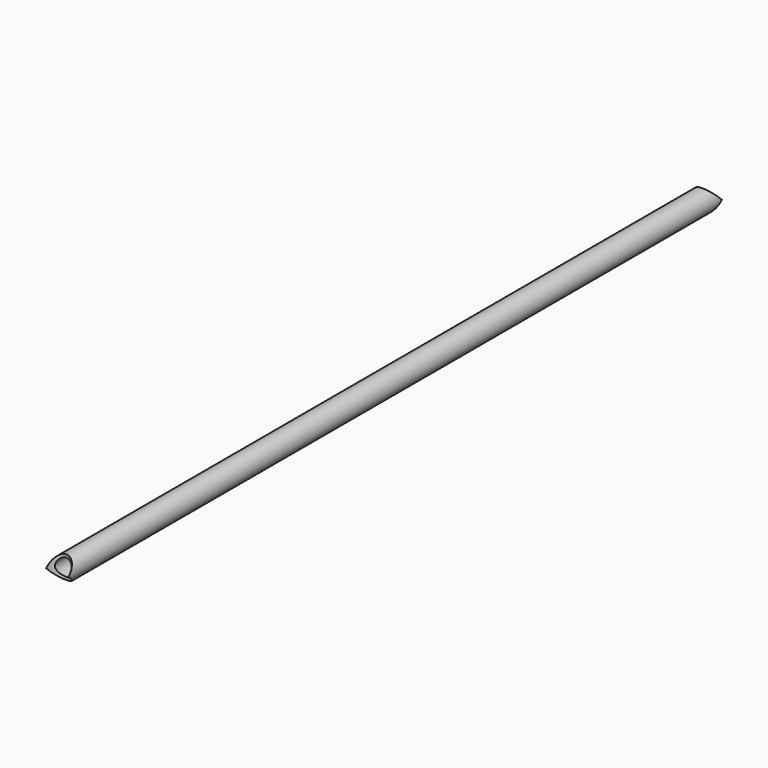
from build123d import *

# Parameters (mm, degrees)
F0_R     = 12.7
F0_R_2   = 9.525
F1_DEPTH = 457.2
F2_R     = 12.7
F3_DEPTH = 12.7


with BuildPart() as f1:
    # F0 (on Front) → F1 (new body, symmetric)
    with BuildSketch(Plane.XZ):
        Circle(F0_R)
        Circle(F0_R_2, mode=Mode.SUBTRACT)
    extrude(amount=F1_DEPTH, both=True)

    # F2 (on Top) → F3 (cut, symmetric)
    with BuildSketch(Plane.XY):
        with Locations((0, -457.2)):
            Circle(F2_R)
        with Locations((0, 457.2)):
            Circle(F2_R)
    extrude(amount=F3_DEPTH, both=True, mode=Mode.SUBTRACT)


solid = f1.part
